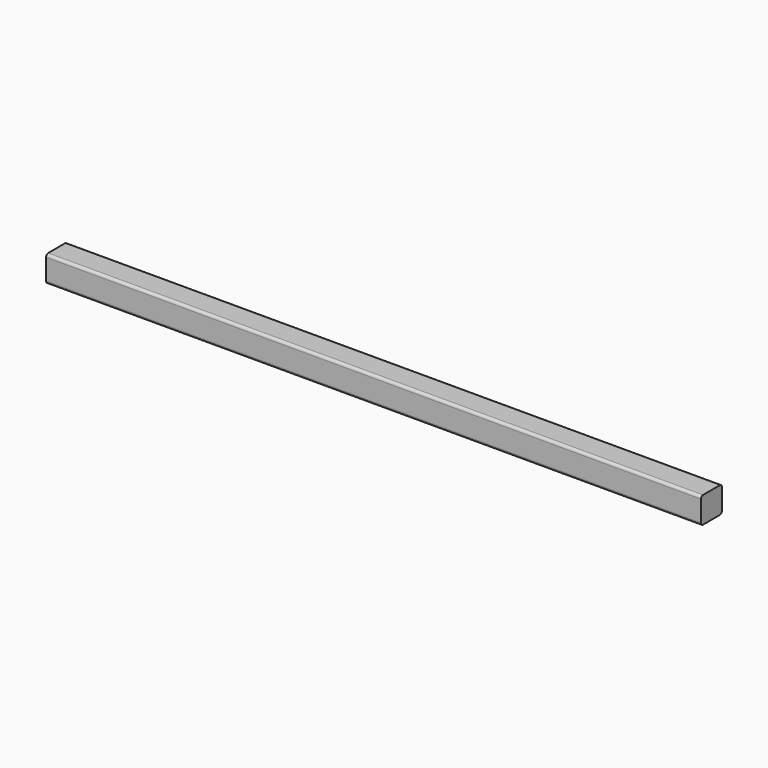
from build123d import *

# Parameters (mm, degrees)
F1_DEPTH = 50.8
F2_R     = 5.08
F3_R     = 6.35
F4_DEPTH = 45.72


with BuildPart() as f1:
    # F0 (on Front) → F1 (new body)
    with BuildSketch(Plane.XZ):
        Polygon((635, 25.4), (0, 25.4), (-635, 25.4), (-635, 0), (-635, -25.4), (0, -25.4), (635, -25.4), (635, 0), align=None)
    extrude(amount=F1_DEPTH)

    # F2
    f2_edges = [f1.edges().sort_by_distance(p)[0] for p in [
        (0, -50.8, 25.4),
        (0, 0, 25.4),
        (0, -50.8, -25.4),
        (0, 0, -25.4),
    ]]
    fillet(f2_edges, radius=F2_R)

    # F3 (on face) → F4 (cut)
    with BuildSketch(Plane(origin=(0, 0, -25.4), x_dir=(1, 0, 0), z_dir=(0, 0, -1))):
        with Locations((279.4, 25.4)):
            Circle(F3_R)
        with Locations((609.6, 25.4)):
            Circle(F3_R)
        with Locations((-279.4, 25.4)):
            Circle(F3_R)
        with Locations((-609.6, 25.4)):
            Circle(F3_R)
    extrude(amount=-F4_DEPTH, mode=Mode.SUBTRACT)


solid = f1.part
